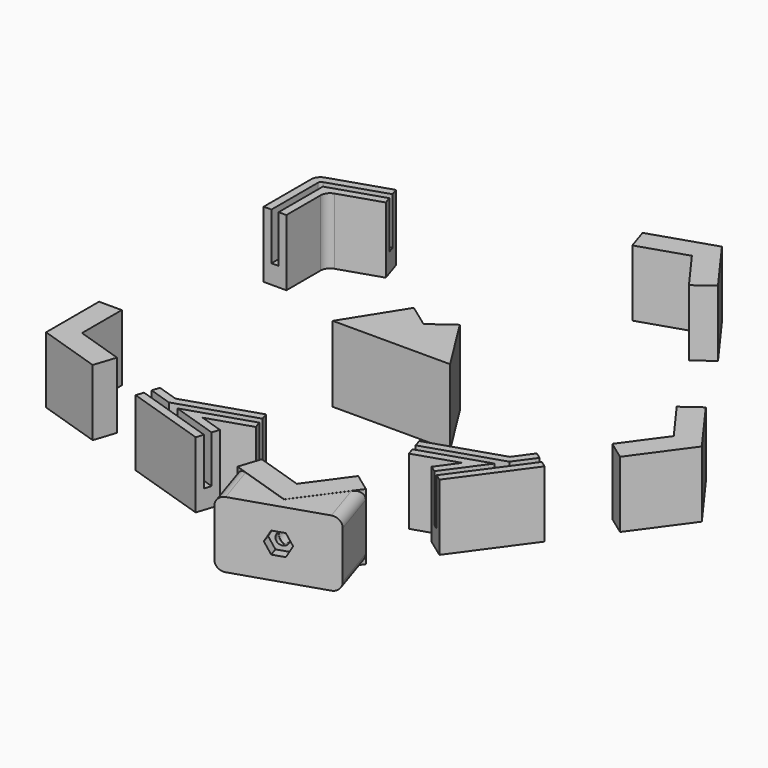
from build123d import *

# Parameters (mm, degrees)
F1_DEPTH  = 35
F3_DEPTH  = 25
F4_R      = 5
F6_DEPTH  = 25
F8_DEPTH  = 25
F9_R      = 5
F12_DEPTH = 5
F11_R     = 3.25
F13_DEPTH = 15
F15_DEPTH = 40


with BuildPart() as f1:
    # F0 (on Top) → F1 (new body)
    with BuildSketch(Plane.XY):
        Polygon((-89.7054851697, 100.1748499712), (-122.99246324, 89.359255168), (-122.99246324, 54.359255168), (-110.99246324, 54.359255168), (-110.99246324, 80.640744832), (-85.9972812372, 88.7621717756), align=None)
    extrude(amount=F1_DEPTH)


with BuildPart() as f1b:
    # F0 (on Top) → F1, piece 2 (new body)
    with BuildSketch(Plane.XY):
        Polygon((-89.7054851697, -100.1748499712), (-85.9972812372, -88.7621717756), (-110.99246324, -80.640744832), (-110.99246324, -54.359255168), (-122.99246324, -54.359255168), (-122.99246324, -89.359255168), align=None)
    extrude(amount=F1_DEPTH)


with BuildPart() as f1c:
    # F0 (on Top) → F1, piece 3 (new body)
    with BuildSketch(Plane.XY):
        Polygon((54.3953484626, -134.378502371), (67.5514244279, -116.2707172681), (57.8432204954, -109.2172942406), (42.3953484626, -130.4794660162), (17.4001664598, -122.3580390726), (13.6919625273, -133.7707172681), (46.9789405976, -144.5863120713), align=None)
    extrude(amount=F1_DEPTH)


with BuildPart() as f1d:
    # F0 (on Top) → F1, piece 4 (new body)
    with BuildSketch(Plane.XY):
        Polygon((131.4545614546, 28.3155948031), (121.7463575221, 21.2621717756), (137.1942295548, 0), (121.7463575221, -21.2621717756), (131.4545614546, -28.3155948031), (152.0270452848, 0), align=None)
    extrude(amount=F1_DEPTH)


with BuildPart() as f1e:
    # F0 (on Top) → F1, piece 5 (new body)
    with BuildSketch(Plane.XY):
        Polygon((67.5514244279, 116.2707172681), (46.9789405976, 144.5863120713), (13.6919625273, 133.7707172681), (17.4001664598, 122.3580390726), (42.3953484626, 130.4794660162), (57.8432204954, 109.2172942406), align=None)
    extrude(amount=F1_DEPTH)


with BuildPart() as f1f:
    # F0 (on Top) → F1, piece 6 (new body)
    with BuildSketch(Plane.XY):
        Polygon((-58.9940718149, -110.1535930693), (-16.1965285816, -124.0593578161), (-12.4883246491, -112.6466796206), (-24.8883169861, -108.6176778772), (-2.5542602668, -101.3609029523), (-6.2624641993, -89.9482247568), (-44.3047248511, -102.3089045318), (-55.2858678824, -98.7409148737), align=None)
    extrude(amount=F1_DEPTH)


with BuildPart() as f1g:
    # F0 (on Top) → F1, piece 7 (new body)
    with BuildSketch(Plane.XY):
        Polygon((112.4738641588, -54.440283399), (102.7656602263, -47.3868603715), (95.9789405976, -56.7279785677), (57.9366799458, -69.0886583427), (61.6448838783, -80.5013365383), (83.9789405976, -73.2445616134), (76.3153238731, -83.7926251184), (86.0235278056, -90.8460481459), align=None)
    extrude(amount=F1_DEPTH)


with BuildPart() as f1h:
    # F0 (on Top) → F1, piece 8 (new body)
    with BuildSketch(Plane.XY):
        Polygon((13.7301591284, -133.8882743186), (22.0836515011, -159.5976802719), (75.9431134017, -142.0976802719), (67.589621029, -116.3882743186), (47.0171371988, -144.7038691217), align=None)
    extrude(amount=F1_DEPTH)

    # F9
    f9_edges = [f1h.edges().sort_by_distance(p)[0] for p in [
        (17.906905, -146.742977, 0),
        (17.906905, -146.742977, 35),
        (71.766367, -129.242977, 35),
        (71.766367, -129.242977, 0),
    ]]
    fillet(f9_edges, radius=F9_R)

    # F10 (on face) → F12 (cut)
    with BuildSketch(Plane(origin=(49.0133824514, -150.8476802719, 0), x_dir=(0.9510565163, 0.3090169944, 0), z_dir=(0.3090169944, -0.9510565163, 0))):
        Polygon((3.2331615075, 23.1), (-3.2331615075, 23.1), (-6.4663230149, 17.5), (-3.2331615075, 11.9), (3.2331615075, 11.9), (6.4663230149, 17.5), align=None)
    extrude(amount=-F12_DEPTH, mode=Mode.SUBTRACT)


with BuildPart() as f3_tool:
    # F2 (on face) → F3 (new body)
    with BuildSketch(Plane.XY.offset(35)):
        with BuildLine():
            Line((-38.2370973933, -108.6176778772), (-41.2709111222, -109.6034237124))
            Line((-41.2709111222, -109.6034237124), (-43.7253179867, -110.4009088452))
            ThreePointArc((-43.7253179867, -110.4009088452), (-44.3047247368, -110.4926778772), (-44.8841314982, -110.4009089159))
            Line((-44.8841314982, -110.4009089159), (-1.672213686, -124.441312125))
            ThreePointArc((-1.672213686, -124.441312125), (0.6904241465, -123.2374880214), (-0.5133999571, -120.8748501889))
            Line((-0.5133999571, -120.8748501889), (-38.2370973933, -108.6176778772))
        make_face()
        with BuildLine():
            ThreePointArc((-44.8841314982, -110.4009089159), (-45.9753620321, -109.468910166), (-46.0879558192, -108.0382710127))
            ThreePointArc((-46.0879558192, -108.0382710127), (-45.6305500658, -107.2918526625), (-44.8841317156, -106.8344469091))
            Line((-44.8841317156, -106.8344469091), (-44.3047248511, -106.6461862067))
            Line((-44.3047248511, -106.6461862067), (-66.3806738585, -99.4732755612))
            ThreePointArc((-66.3806738585, -99.4732755612), (-68.743311691, -100.6770996648), (-67.5394875874, -103.0397374973))
            Line((-67.5394875874, -103.0397374973), (-44.8841314982, -110.4009089159))
        make_face()
        with BuildLine():
            Line((111.5647467268, -42.2938259644), (98.5283308012, -60.2369131522))
            Line((98.5283308012, -60.2369131522), (99.1077376657, -60.0486524498))
            ThreePointArc((99.1077376657, -60.0486524498), (99.9804591521, -59.9799677792), (100.7892418782, -60.3149765534))
            ThreePointArc((100.7892418782, -60.3149765534), (101.5390601695, -61.5385688005), (101.2040513891, -62.9339807735))
            Line((101.2040513891, -62.9339807735), (114.5985604557, -44.4980206605))
            ThreePointArc((114.5985604557, -44.4980206605), (114.1837509393, -41.879016448), (111.5647467268, -42.2938259644))
        make_face()
        with BuildLine():
            Line((97.8121445301, -64.4125995187), (94.7783308012, -65.3983453539))
            Line((94.7783308012, -65.3983453539), (75.5809337275, -91.8212956063))
            ThreePointArc((75.5809337275, -91.8212956063), (75.9957432439, -94.4402998188), (78.6147474564, -94.0254903024))
            Line((78.6147474564, -94.0254903024), (101.2040513891, -62.9339807735))
            ThreePointArc((101.2040513891, -62.9339807735), (100.7892418744, -63.348790285), (100.2665513946, -63.6151143859))
            Line((100.2665513946, -63.6151143859), (97.8121445301, -64.4125995187))
        make_face()
        with BuildLine():
            Line((-116.99246324, 85), (-116.99246324, 83.125))
            ThreePointArc((-116.99246324, 83.125), (-116.6991486181, 83.1480843614), (-116.4130563756, 83.2167690319))
            Line((-116.4130563756, 83.2167690319), (-115.11746324, 83.63773276))
            Line((-115.11746324, 83.63773276), (-115.11746324, 85))
            ThreePointArc((-115.11746324, 85), (-115.1405476014, 85.293314622), (-115.209232272, 85.5794068645))
            Line((-115.209232272, 85.5794068645), (-116.99246324, 85))
        make_face()
        Polygon((-44.3047248511, -106.6461862067), (-41.2709111222, -107.631932042), (96.6533308012, -62.8176292531), (98.5283308012, -60.2369131522), align=None)
        with BuildLine():
            ThreePointArc((-118.86746324, 85), (-118.3182884548, 83.6741747853), (-116.99246324, 83.125))
            Line((-116.99246324, 83.125), (-116.99246324, 85))
            Line((-116.99246324, 85), (-115.209232272, 85.5794068645))
            ThreePointArc((-115.209232272, 85.5794068645), (-116.141231053, 86.6706372329), (-117.5718701045, 86.7832309681))
            ThreePointArc((-117.5718701045, 86.7832309681), (-118.5093701045, 86.102097348), (-118.86746324, 85))
        make_face()
        with BuildLine():
            Line((-46.0879558192, -108.0382710127), (-44.3047248511, -108.6176778772))
            Line((-44.3047248511, -108.6176778772), (-41.2709111222, -107.631932042))
            Line((-41.2709111222, -107.631932042), (-44.3047248511, -106.6461862067))
            Line((-44.3047248511, -106.6461862067), (-44.8841317156, -106.8344469091))
            ThreePointArc((-44.8841317156, -106.8344469091), (-45.6305500658, -107.2918526625), (-46.0879558192, -108.0382710127))
        make_face()
        Polygon((-41.2709111222, -107.631932042), (-44.3047248511, -108.6176778772), (-41.2709111222, -109.6034237124), (-38.2370973933, -108.6176778772), align=None)
        with BuildLine():
            Line((98.5283308012, -60.2369131522), (96.6533308012, -62.8176292531))
            Line((96.6533308012, -62.8176292531), (99.6871445301, -61.8318834178))
            Line((99.6871445301, -61.8318834178), (100.7892418782, -60.3149765534))
            ThreePointArc((100.7892418782, -60.3149765534), (99.9804591521, -59.9799677792), (99.1077376657, -60.0486524498))
            Line((99.1077376657, -60.0486524498), (98.5283308012, -60.2369131522))
        make_face()
        Polygon((99.6871445301, -61.8318834178), (96.6533308012, -62.8176292531), (94.7783308012, -65.3983453539), (97.8121445301, -64.4125995187), align=None)
        with BuildLine():
            Line((100.7892418782, -60.3149765534), (99.6871445301, -61.8318834178))
            Line((99.6871445301, -61.8318834178), (97.8121445301, -64.4125995187))
            Line((97.8121445301, -64.4125995187), (100.2665513946, -63.6151143859))
            ThreePointArc((100.2665513946, -63.6151143859), (100.7892418744, -63.348790285), (101.2040513891, -62.9339807735))
            ThreePointArc((101.2040513891, -62.9339807735), (101.5390601695, -61.5385688005), (100.7892418782, -60.3149765534))
        make_face()
        with BuildLine():
            Line((-41.2709111222, -109.6034237124), (-44.3047248511, -108.6176778772))
            Line((-44.3047248511, -108.6176778772), (-46.0879558192, -108.0382710127))
            ThreePointArc((-46.0879558192, -108.0382710127), (-45.9753620321, -109.468910166), (-44.8841314982, -110.4009089159))
            ThreePointArc((-44.8841314982, -110.4009089159), (-44.3047247368, -110.4926778772), (-43.7253179867, -110.4009088452))
            Line((-43.7253179867, -110.4009088452), (-41.2709111222, -109.6034237124))
        make_face()
        with BuildLine():
            Line((-118.86746324, 54.359255168), (-116.99246324, 54.359255168))
            Line((-116.99246324, 54.359255168), (-116.99246324, 83.125))
            ThreePointArc((-116.99246324, 83.125), (-118.3182884548, 83.6741747853), (-118.86746324, 85))
            Line((-118.86746324, 85), (-118.86746324, 54.359255168))
        make_face()
        with BuildLine():
            Line((-116.99246324, 83.125), (-116.99246324, 54.359255168))
            Line((-116.99246324, 54.359255168), (-115.11746324, 54.359255168))
            Line((-115.11746324, 54.359255168), (-115.11746324, 83.63773276))
            Line((-115.11746324, 83.63773276), (-116.4130563756, 83.2167690319))
            ThreePointArc((-116.4130563756, 83.2167690319), (-116.6991486181, 83.1480843614), (-116.99246324, 83.125))
        make_face()
        with BuildLine():
            ThreePointArc((-117.5718701045, 86.7832309681), (-116.141231053, 86.6706372329), (-115.209232272, 85.5794068645))
            Line((-115.209232272, 85.5794068645), (-87.8513832035, 94.4685108734))
            Line((-87.8513832035, 94.4685108734), (-88.4307900679, 96.2517418414))
            Line((-88.4307900679, 96.2517418414), (-117.5718701045, 86.7832309681))
        make_face()
        with BuildLine():
            Line((-115.11746324, 85), (-115.11746324, 83.63773276))
            Line((-115.11746324, 83.63773276), (-87.271976339, 92.6852799053))
            Line((-87.271976339, 92.6852799053), (-87.8513832035, 94.4685108734))
            Line((-87.8513832035, 94.4685108734), (-115.209232272, 85.5794068645))
            ThreePointArc((-115.209232272, 85.5794068645), (-115.1405476014, 85.293314622), (-115.11746324, 85))
        make_face()
        with BuildLine():
            Line((-115.11746324, 54.359255168), (-116.99246324, 54.359255168))
            Line((-116.99246324, 54.359255168), (-118.86746324, 54.359255168))
            ThreePointArc((-118.86746324, 54.359255168), (-116.99246324, 52.484255168), (-115.11746324, 54.359255168))
        make_face()
        with BuildLine():
            Line((-87.8513832035, 94.4685108734), (-87.271976339, 92.6852799053))
            ThreePointArc((-87.271976339, 92.6852799053), (-86.0681522354, 95.0479177378), (-88.4307900679, 96.2517418414))
            Line((-88.4307900679, 96.2517418414), (-87.8513832035, 94.4685108734))
        make_face()
    extrude(amount=-F3_DEPTH)


with BuildPart() as f1_1:
    add(f1.part)

    # F3: cut by f3_tool
    add(f3_tool.part, mode=Mode.SUBTRACT)

    # F4
    f4_edges = [f1_1.edges().sort_by_distance(p)[0] for p in [
        (-110.992463, 80.640745, 17.5),
        (-122.992463, 89.359255, 17.5),
    ]]
    fillet(f4_edges, radius=F4_R)

    # F7 (on face) → F8 (cut)
    with BuildSketch(Plane.XY.offset(35)):
        with BuildLine():
            Line((97.8121445301, -64.4125995187), (94.7783308012, -65.3983453539))
            Line((94.7783308012, -65.3983453539), (79.6525189749, -86.2172392841))
            Line((79.6525189749, -86.2172392841), (75.6043512253, -91.7890641857))
            ThreePointArc((75.6043512253, -91.7890641857), (76.0191607417, -94.4080683982), (78.6381649542, -93.9932588818))
            Line((78.6381649542, -93.9932588818), (101.2040513891, -62.9339807735))
            ThreePointArc((101.2040513891, -62.9339807735), (100.7892418744, -63.348790285), (100.2665513946, -63.6151143859))
            Line((100.2665513946, -63.6151143859), (97.8121445301, -64.4125995187))
        make_face()
        with BuildLine():
            Line((97.8121445301, -64.4125995187), (94.7783308012, -65.3983453539))
            Line((94.7783308012, -65.3983453539), (79.6525189749, -86.2172392841))
            Line((79.6525189749, -86.2172392841), (75.6043512253, -91.7890641857))
            ThreePointArc((75.6043512253, -91.7890641857), (76.0191607417, -94.4080683982), (78.6381649542, -93.9932588818))
            Line((78.6381649542, -93.9932588818), (101.2040513891, -62.9339807735))
            ThreePointArc((101.2040513891, -62.9339807735), (100.7892418744, -63.348790285), (100.2665513946, -63.6151143859))
            Line((100.2665513946, -63.6151143859), (97.8121445301, -64.4125995187))
        make_face()
        with BuildLine():
            Line((97.8121445301, -64.4125995187), (94.7783308012, -65.3983453539))
            Line((94.7783308012, -65.3983453539), (79.6525189749, -86.2172392841))
            Line((79.6525189749, -86.2172392841), (75.6043512253, -91.7890641857))
            ThreePointArc((75.6043512253, -91.7890641857), (76.0191607417, -94.4080683982), (78.6381649542, -93.9932588818))
            Line((78.6381649542, -93.9932588818), (101.2040513891, -62.9339807735))
            ThreePointArc((101.2040513891, -62.9339807735), (100.7892418744, -63.348790285), (100.2665513946, -63.6151143859))
            Line((100.2665513946, -63.6151143859), (97.8121445301, -64.4125995187))
        make_face()
        Polygon((99.6871445301, -61.8318834178), (96.6533308012, -62.8176292531), (94.7783308012, -65.3983453539), (97.8121445301, -64.4125995187), align=None)
        Polygon((-44.5022110645, -106.7103533672), (-41.4683973356, -107.6960992024), (96.6533308012, -62.8176292531), (98.5283308012, -60.2369131522), align=None)
        with BuildLine():
            Line((98.5283308012, -60.2369131522), (96.6533308012, -62.8176292531))
            Line((96.6533308012, -62.8176292531), (99.6871445301, -61.8318834178))
            Line((99.6871445301, -61.8318834178), (100.7892418782, -60.3149765534))
            ThreePointArc((100.7892418782, -60.3149765534), (99.9804591521, -59.9799677792), (99.1077376657, -60.0486524498))
            Line((99.1077376657, -60.0486524498), (98.5283308012, -60.2369131522))
        make_face()
        with BuildLine():
            Line((111.5881642246, -42.2615945438), (98.5283308012, -60.2369131522))
            Line((98.5283308012, -60.2369131522), (99.1077376657, -60.0486524498))
            ThreePointArc((99.1077376657, -60.0486524498), (99.9804591521, -59.9799677792), (100.7892418782, -60.3149765534))
            ThreePointArc((100.7892418782, -60.3149765534), (101.5390601695, -61.5385688005), (101.2040513891, -62.9339807735))
            Line((101.2040513891, -62.9339807735), (114.6219779535, -44.4657892399))
            ThreePointArc((114.6219779535, -44.4657892399), (114.2071684371, -41.8467850274), (111.5881642246, -42.2615945438))
        make_face()
        with BuildLine():
            Line((111.5881642246, -42.2615945438), (98.5283308012, -60.2369131522))
            Line((98.5283308012, -60.2369131522), (99.1077376657, -60.0486524498))
            ThreePointArc((99.1077376657, -60.0486524498), (99.9804591521, -59.9799677792), (100.7892418782, -60.3149765534))
            ThreePointArc((100.7892418782, -60.3149765534), (101.5390601695, -61.5385688005), (101.2040513891, -62.9339807735))
            Line((101.2040513891, -62.9339807735), (114.6219779535, -44.4657892399))
            ThreePointArc((114.6219779535, -44.4657892399), (114.2071684371, -41.8467850274), (111.5881642246, -42.2615945438))
        make_face()
        with BuildLine():
            Line((111.5881642246, -42.2615945438), (98.5283308012, -60.2369131522))
            Line((98.5283308012, -60.2369131522), (99.1077376657, -60.0486524498))
            ThreePointArc((99.1077376657, -60.0486524498), (99.9804591521, -59.9799677792), (100.7892418782, -60.3149765534))
            ThreePointArc((100.7892418782, -60.3149765534), (101.5390601695, -61.5385688005), (101.2040513891, -62.9339807735))
            Line((101.2040513891, -62.9339807735), (114.6219779535, -44.4657892399))
            ThreePointArc((114.6219779535, -44.4657892399), (114.2071684371, -41.8467850274), (111.5881642246, -42.2615945438))
        make_face()
        with BuildLine():
            Line((100.7892418782, -60.3149765534), (99.6871445301, -61.8318834178))
            Line((99.6871445301, -61.8318834178), (97.8121445301, -64.4125995187))
            Line((97.8121445301, -64.4125995187), (100.2665513946, -63.6151143859))
            ThreePointArc((100.2665513946, -63.6151143859), (100.7892418744, -63.348790285), (101.2040513891, -62.9339807735))
            ThreePointArc((101.2040513891, -62.9339807735), (101.5390601695, -61.5385688005), (100.7892418782, -60.3149765534))
        make_face()
        Polygon((96.6533308012, -62.8176292531), (-41.4683973356, -107.6960992024), (-38.4345836067, -108.6818450377), (60.3701887765, -76.5782284085), (94.7783308012, -65.3983453539), align=None)
    extrude(amount=-F8_DEPTH, mode=Mode.SUBTRACT)


with BuildPart() as f1f_1:
    add(f1f.part)

    # F3: cut by f3_tool
    add(f3_tool.part, mode=Mode.SUBTRACT)


with BuildPart() as f1g_1:
    add(f1g.part)

    # F3: cut by f3_tool
    add(f3_tool.part, mode=Mode.SUBTRACT)


with BuildPart() as f6_tool:
    # F5 (on face) → F6 (new body)
    with BuildSketch(Plane.XY.offset(35)):
        with BuildLine():
            ThreePointArc((-44.8841315729, -110.4009088916), (-45.9753620499, -109.4689101311), (-46.0879558192, -108.0382710127))
            ThreePointArc((-46.0879558192, -108.0382710127), (-45.6305500658, -107.2918526625), (-44.8841317156, -106.8344469091))
            Line((-44.8841317156, -106.8344469091), (-44.3047248511, -106.6461862067))
            Line((-44.3047248511, -106.6461862067), (-66.8842523844, -99.3096529795))
            ThreePointArc((-66.8842523844, -99.3096529795), (-69.2468902169, -100.5134770831), (-68.0430661133, -102.8761149157))
            Line((-68.0430661133, -102.8761149157), (-44.8841315729, -110.4009088916))
        make_face()
        with BuildLine():
            ThreePointArc((-44.8841315729, -110.4009088916), (-45.9753620499, -109.4689101311), (-46.0879558192, -108.0382710127))
            ThreePointArc((-46.0879558192, -108.0382710127), (-45.6305500658, -107.2918526625), (-44.8841317156, -106.8344469091))
            Line((-44.8841317156, -106.8344469091), (-44.3047248511, -106.6461862067))
            Line((-44.3047248511, -106.6461862067), (-66.8842523844, -99.3096529795))
            ThreePointArc((-66.8842523844, -99.3096529795), (-69.2468902169, -100.5134770831), (-68.0430661133, -102.8761149157))
            Line((-68.0430661133, -102.8761149157), (-44.8841315729, -110.4009088916))
        make_face()
        with BuildLine():
            ThreePointArc((-44.8841315729, -110.4009088916), (-45.9753620499, -109.4689101311), (-46.0879558192, -108.0382710127))
            ThreePointArc((-46.0879558192, -108.0382710127), (-45.6305500658, -107.2918526625), (-44.8841317156, -106.8344469091))
            Line((-44.8841317156, -106.8344469091), (-44.3047248511, -106.6461862067))
            Line((-44.3047248511, -106.6461862067), (-66.8842523844, -99.3096529795))
            ThreePointArc((-66.8842523844, -99.3096529795), (-69.2468902169, -100.5134770831), (-68.0430661133, -102.8761149157))
            Line((-68.0430661133, -102.8761149157), (-44.8841315729, -110.4009088916))
        make_face()
        with BuildLine():
            Line((-41.2709111222, -109.6034237124), (-44.3047248511, -108.6176778772))
            Line((-44.3047248511, -108.6176778772), (-46.0879558192, -108.0382710127))
            ThreePointArc((-46.0879558192, -108.0382710127), (-45.9753620499, -109.4689101311), (-44.8841315729, -110.4009088916))
            ThreePointArc((-44.8841315729, -110.4009088916), (-44.3047247761, -110.4926778772), (-43.7253179867, -110.4009088452))
            Line((-43.7253179867, -110.4009088452), (-41.2709111222, -109.6034237124))
        make_face()
        with BuildLine():
            Line((-46.0879558192, -108.0382710127), (-44.3047248511, -108.6176778772))
            Line((-44.3047248511, -108.6176778772), (-41.2709111222, -107.631932042))
            Line((-41.2709111222, -107.631932042), (-44.3047248511, -106.6461862067))
            Line((-44.3047248511, -106.6461862067), (-44.8841317156, -106.8344469091))
            ThreePointArc((-44.8841317156, -106.8344469091), (-45.6305500658, -107.2918526625), (-46.0879558192, -108.0382710127))
        make_face()
        Polygon((-41.2709111222, -107.631932042), (-44.3047248511, -108.6176778772), (-41.2709111222, -109.6034237124), (-38.2370973933, -108.6176778772), align=None)
        Polygon((-44.3047248511, -106.6461862067), (-41.2709111222, -107.631932042), (-4.4083622331, -95.6545638545), (96.6533308012, -62.8176292531), (98.5283308012, -60.2369131522), align=None)
        Polygon((-4.4083622331, -95.6545638545), (-41.2709111222, -107.631932042), (-38.2370973933, -108.6176778772), (-3.8289553686, -97.4377948226), align=None)
        with BuildLine():
            Line((-38.2370973933, -108.6176778772), (-41.2709111222, -109.6034237124))
            Line((-41.2709111222, -109.6034237124), (-43.7253179867, -110.4009088452))
            ThreePointArc((-43.7253179867, -110.4009088452), (-44.3047247761, -110.4926778772), (-44.8841315729, -110.4009088916))
            Line((-44.8841315729, -110.4009088916), (-2.1757922119, -124.2776895434))
            ThreePointArc((-2.1757922119, -124.2776895434), (0.1868456206, -123.0738654398), (-1.016978483, -120.7112276073))
            Line((-1.016978483, -120.7112276073), (-13.7630197509, -116.5697877503))
            Line((-13.7630197509, -116.5697877503), (-38.2370973933, -108.6176778772))
        make_face()
        with BuildLine():
            Line((-38.2370973933, -108.6176778772), (-41.2709111222, -109.6034237124))
            Line((-41.2709111222, -109.6034237124), (-43.7253179867, -110.4009088452))
            ThreePointArc((-43.7253179867, -110.4009088452), (-44.3047247761, -110.4926778772), (-44.8841315729, -110.4009088916))
            Line((-44.8841315729, -110.4009088916), (-2.1757922119, -124.2776895434))
            ThreePointArc((-2.1757922119, -124.2776895434), (0.1868456206, -123.0738654398), (-1.016978483, -120.7112276073))
            Line((-1.016978483, -120.7112276073), (-13.7630197509, -116.5697877503))
            Line((-13.7630197509, -116.5697877503), (-38.2370973933, -108.6176778772))
        make_face()
        with BuildLine():
            Line((-38.2370973933, -108.6176778772), (-41.2709111222, -109.6034237124))
            Line((-41.2709111222, -109.6034237124), (-43.7253179867, -110.4009088452))
            ThreePointArc((-43.7253179867, -110.4009088452), (-44.3047247761, -110.4926778772), (-44.8841315729, -110.4009088916))
            Line((-44.8841315729, -110.4009088916), (-2.1757922119, -124.2776895434))
            ThreePointArc((-2.1757922119, -124.2776895434), (0.1868456206, -123.0738654398), (-1.016978483, -120.7112276073))
            Line((-1.016978483, -120.7112276073), (-13.7630197509, -116.5697877503))
            Line((-13.7630197509, -116.5697877503), (-38.2370973933, -108.6176778772))
        make_face()
        Polygon((96.6533308012, -62.8176292531), (-4.4083622331, -95.6545638545), (-3.8289553686, -97.4377948226), (94.7783308012, -65.3983453539), align=None)
        Polygon((-44.3047248511, -106.6461862067), (-41.2709111222, -107.631932042), (-4.4083622331, -95.6545638545), (96.6533308012, -62.8176292531), (98.5283308012, -60.2369131522), align=None)
        with BuildLine():
            Line((100.7892418782, -60.3149765534), (99.6871445301, -61.8318834178))
            Line((99.6871445301, -61.8318834178), (97.8121445301, -64.4125995187))
            Line((97.8121445301, -64.4125995187), (100.2665513946, -63.6151143859))
            ThreePointArc((100.2665513946, -63.6151143859), (100.7892419327, -63.3487902427), (101.2040514738, -62.9339806568))
            ThreePointArc((101.2040514738, -62.9339806568), (101.5390601582, -61.5385687293), (100.7892418782, -60.3149765534))
        make_face()
        with BuildLine():
            Line((98.5283308012, -60.2369131522), (96.6533308012, -62.8176292531))
            Line((96.6533308012, -62.8176292531), (99.6871445301, -61.8318834178))
            Line((99.6871445301, -61.8318834178), (100.7892418782, -60.3149765534))
            ThreePointArc((100.7892418782, -60.3149765534), (99.9804591521, -59.9799677792), (99.1077376657, -60.0486524498))
            Line((99.1077376657, -60.0486524498), (98.5283308012, -60.2369131522))
        make_face()
        Polygon((99.6871445301, -61.8318834178), (96.6533308012, -62.8176292531), (94.7783308012, -65.3983453539), (97.8121445301, -64.4125995187), align=None)
        with BuildLine():
            Line((97.8121445301, -64.4125995187), (94.7783308012, -65.3983453539))
            Line((94.7783308012, -65.3983453539), (75.4062468998, -92.0617313977))
            ThreePointArc((75.4062468998, -92.0617313977), (75.8210564162, -94.6807356102), (78.4400606287, -94.2659260938))
            Line((78.4400606287, -94.2659260938), (101.2040514738, -62.9339806568))
            ThreePointArc((101.2040514738, -62.9339806568), (100.7892419327, -63.3487902427), (100.2665513946, -63.6151143859))
            Line((100.2665513946, -63.6151143859), (97.8121445301, -64.4125995187))
        make_face()
        with BuildLine():
            Line((111.3900598991, -42.5342617558), (98.5283308012, -60.2369131522))
            Line((98.5283308012, -60.2369131522), (99.1077376657, -60.0486524498))
            ThreePointArc((99.1077376657, -60.0486524498), (99.9804591521, -59.9799677792), (100.7892418782, -60.3149765534))
            ThreePointArc((100.7892418782, -60.3149765534), (101.5390601582, -61.5385687293), (101.2040514738, -62.9339806568))
            Line((101.2040514738, -62.9339806568), (114.423873628, -44.7384564519))
            ThreePointArc((114.423873628, -44.7384564519), (114.0090641116, -42.1194522394), (111.3900598991, -42.5342617558))
        make_face()
    extrude(amount=-F6_DEPTH)


with BuildPart() as f1f_2:
    add(f1f_1.part)

    # F6: cut by f6_tool
    add(f6_tool.part, mode=Mode.SUBTRACT)


with BuildPart() as f1g_2:
    add(f1g_1.part)

    # F6: cut by f6_tool
    add(f6_tool.part, mode=Mode.SUBTRACT)


with BuildPart() as f13_tool:
    # F11 (on face) → F13 (new body)
    with BuildSketch(Plane(origin=(49.0133824514, -150.8476802719, 0), x_dir=(0.9510565163, 0.3090169944, 0), z_dir=(0.3090169944, -0.9510565163, 0))):
        with Locations((0, 17.5)):
            Circle(F11_R)
    extrude(amount=-F13_DEPTH)


with BuildPart() as f1c_1:
    add(f1c.part)

    # F13: cut by f13_tool
    add(f13_tool.part, mode=Mode.SUBTRACT)


with BuildPart() as f1h_1:
    add(f1h.part)

    # F13: cut by f13_tool
    add(f13_tool.part, mode=Mode.SUBTRACT)


with BuildPart() as f15:
    # F14 (on Top) → F15 (new body)
    with BuildSketch(Plane.XY):
        Polygon((-31, -15), (31, -15), (12.1352549156, 15), (0, 6.1832212156), (-12.1352549156, 15), align=None)
    extrude(amount=F15_DEPTH)


solid = Compound([f1b.part, f1d.part, f1e.part, f1_1.part, f1f_2.part, f1g_2.part, f1c_1.part, f1h_1.part, f15.part])
